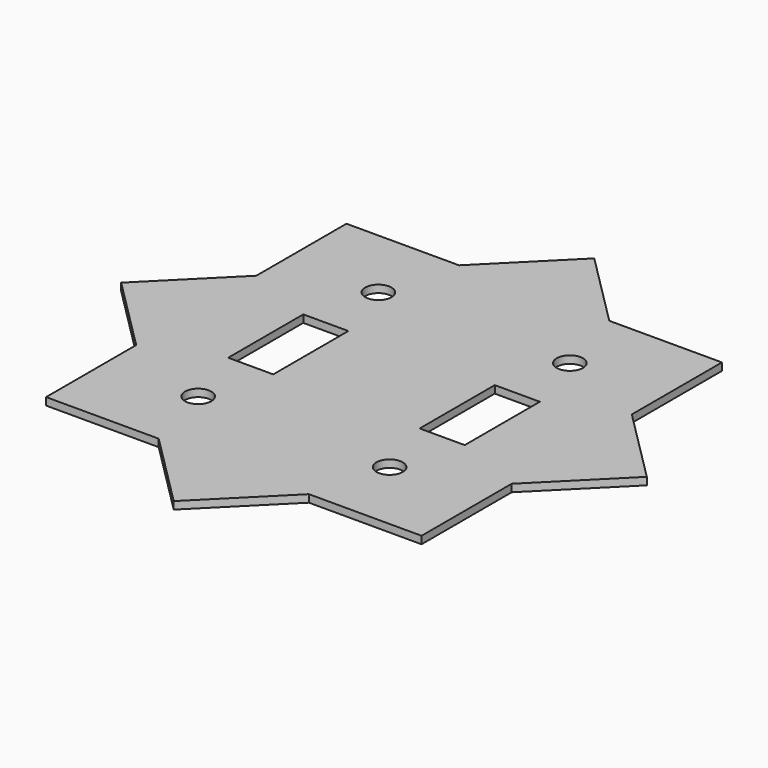
from build123d import *

# Parameters (mm, degrees)
F0_R     = 2.25
F0_W     = 12
F0_H     = 25
F1_DEPTH = 2
F2_R     = 3.5
F3_DEPTH = 2


with BuildPart() as f1:
    # F0 (on Top) → F1 (new body)
    with BuildSketch(Plane.XY):
        Polygon((50, 20), (50, 50), (20, 50), (0, 70), (-20, 50), (-50, 50), (-50, 20), (-70, 0), (-50, -20), (-50, -50), (-20, -50), (0, -70), (20, -50), (50, -50), (50, -20), (70, 0), align=None)
        with Locations((-25.5, -30)):
            Circle(F0_R, mode=Mode.SUBTRACT)
        with Locations((25.5, -30)):
            Circle(F0_R, mode=Mode.SUBTRACT)
        with Locations((-25.5, 0)):
            Rectangle(F0_W, F0_H, mode=Mode.SUBTRACT)
        with Locations((-25.5, 30)):
            Circle(F0_R, mode=Mode.SUBTRACT)
        with Locations((25.5, 0)):
            Rectangle(F0_W, F0_H, mode=Mode.SUBTRACT)
        with Locations((25.5, 30)):
            Circle(F0_R, mode=Mode.SUBTRACT)
    extrude(amount=F1_DEPTH)

    # F2 (on face) → F3 (cut)
    with BuildSketch(Plane.XY.offset(2)):
        with Locations((-25.5, 30)):
            Circle(F2_R)
        with Locations((25.5, 30)):
            Circle(F2_R)
        with Locations((25.5, -30)):
            Circle(F2_R)
        with Locations((-25.5, -30)):
            Circle(F2_R)
    extrude(amount=-F3_DEPTH, mode=Mode.SUBTRACT)


solid = f1.part
